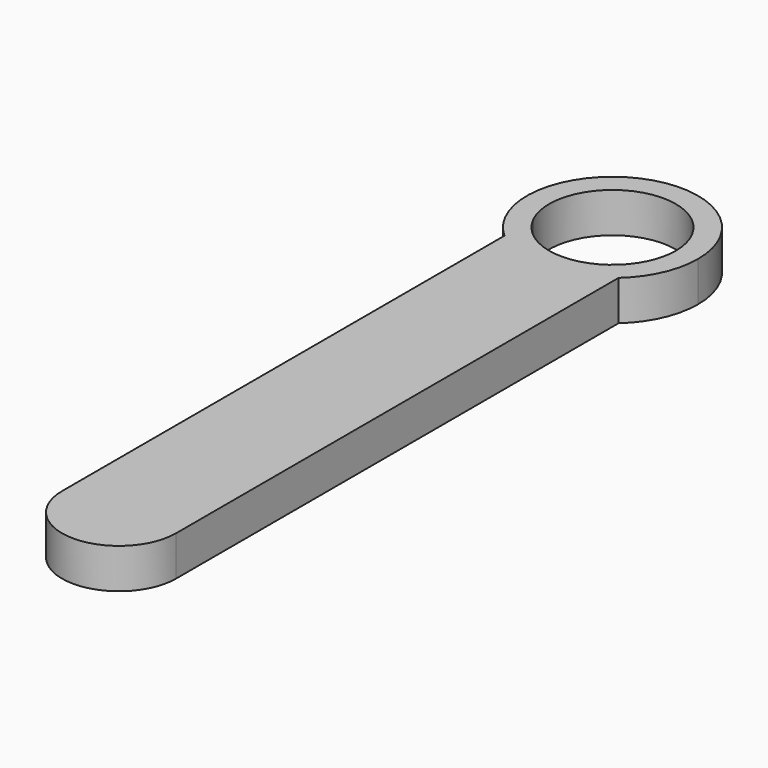
from build123d import *

# Parameters (mm, degrees)
F1_DEPTH = 7


with BuildPart() as f1:
    # F0 (on Top) → F1 (new body)
    with BuildSketch(Plane.XY):
        with BuildLine():
            Line((-7.7118040062, 34.6460978838), (-7.7118040062, -62.2957423329))
            ThreePointArc((-7.7118040062, -62.2957423329), (2.2881959938, -52.2957423329), (12.2881959938, -62.2957423329))
            Line((12.2881959938, -62.2957423329), (12.2881959938, 34.6460978838))
            ThreePointArc((12.2881959938, 34.6460978838), (2.2881959938, 30.8264377713), (-7.7118040062, 34.6460978838))
        make_face()
        with BuildLine():
            ThreePointArc((12.2881959938, -62.2957423329), (2.2881959938, -52.2957423329), (-7.7118040062, -62.2957423329))
            ThreePointArc((-7.7118040062, -62.2957423329), (2.2881959938, -72.2957423329), (12.2881959938, -62.2957423329))
        make_face()
        with BuildLine():
            ThreePointArc((17.2881959938, 45.8264377713), (-3.8355283632, 59.5195017089), (-7.7118040062, 34.6460978838))
            Line((-7.7118040062, 34.6460978838), (-7.7118040062, 41.0087619831))
            ThreePointArc((-7.7118040062, 41.0087619831), (-0.1826338264, 56.647944136), (13.3881959938, 45.8264377713))
            ThreePointArc((13.3881959938, 45.8264377713), (13.1097023584, 43.3556079512), (12.2881959938, 41.0087619831))
            Line((12.2881959938, 41.0087619831), (12.2881959938, 34.6460978838))
            ThreePointArc((12.2881959938, 34.6460978838), (15.9812599314, 39.7027134144), (17.2881959938, 45.8264377713))
        make_face()
        with BuildLine():
            Line((-7.7118040062, 41.0087619831), (-7.7118040062, 34.6460978838))
            ThreePointArc((-7.7118040062, 34.6460978838), (2.2881959938, 30.8264377713), (12.2881959938, 34.6460978838))
            Line((12.2881959938, 34.6460978838), (12.2881959938, 41.0087619831))
            ThreePointArc((12.2881959938, 41.0087619831), (2.2881959938, 34.7264377713), (-7.7118040062, 41.0087619831))
        make_face()
    extrude(amount=F1_DEPTH)


solid = f1.part
